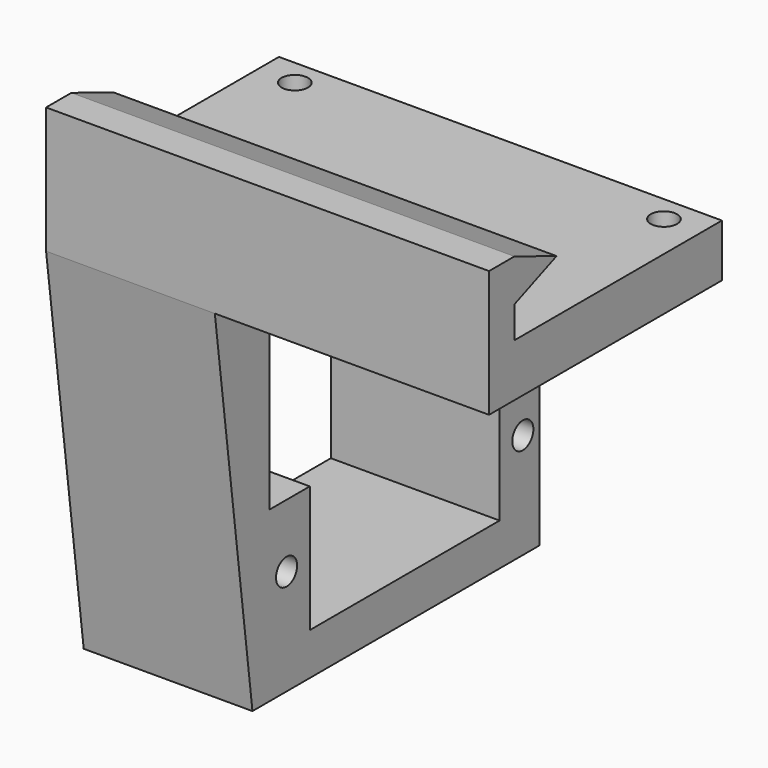
from build123d import *

# Parameters (mm, degrees)
F0_W     = 42
F0_H     = 24.59859317
F0_R     = 1.25
F1_DEPTH = 5
F3_DEPTH = 42
F5_R     = 1.25
F6_DEPTH = 16


with BuildPart() as f1:
    # F0 (on Top) → F1 (new body)
    with BuildSketch(Plane.XY):
        with Locations((21, 12.299296585)):
            Rectangle(F0_W, F0_H)
        with Locations((3.5, 22.09859317)):
            Circle(F0_R, mode=Mode.SUBTRACT)
        with Locations((38.5, 22.09859317)):
            Circle(F0_R, mode=Mode.SUBTRACT)
    extrude(amount=F1_DEPTH)

    # F2 (on face) → F3 (join, through all)
    with BuildSketch(Plane(origin=(0, 0, 0), x_dir=(0, -1, 0), z_dir=(-1, 0, 0))):
        Polygon((0, 5), (0, 0), (3, 0), (3, 12), (0, 12), (-5, 10), (0, 8), align=None)
    extrude(amount=-F3_DEPTH)

    # F5 (on Right) → F6 (join)
    with BuildSketch(Plane.YZ):
        Polygon((3.5, -19), (3.5, 0), (-3, 0), (1.4603033196, -35), (35.5, -35), (35.5, -19), (30.75, -19), (30.75, -31), (8.25, -31), (8.25, -19), align=None)
        with Locations((5.5, -25)):
            Circle(F5_R, mode=Mode.SUBTRACT)
        with Locations((33.5, -25)):
            Circle(F5_R, mode=Mode.SUBTRACT)
    extrude(amount=F6_DEPTH)


solid = f1.part
